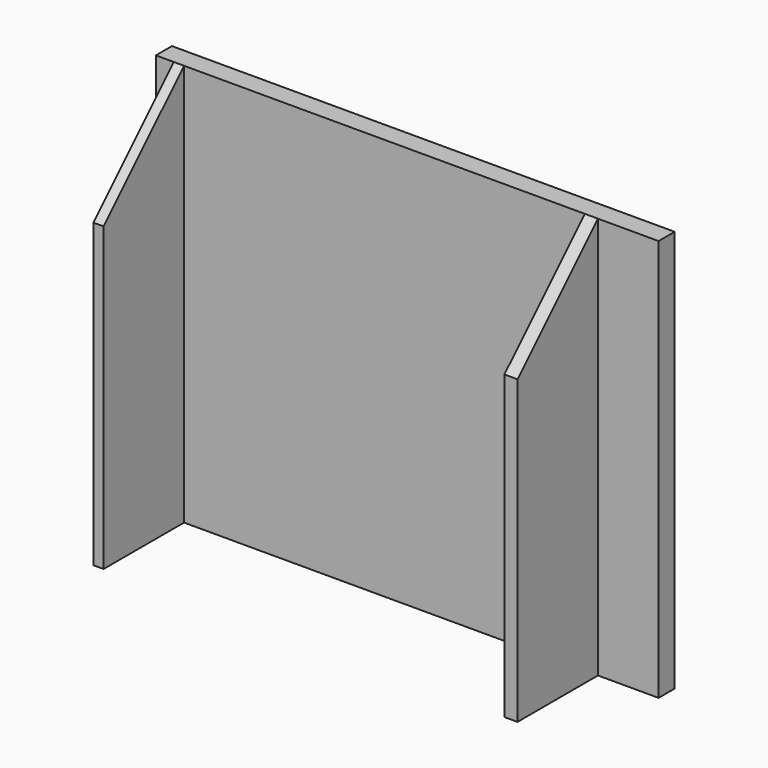
from build123d import *

# Parameters (mm, degrees)
F0_W     = 2.592586
F0_H     = 25.4
F0_W_2   = 3.312744
F1_DEPTH = 101.6
F2_SIZE  = 25.4


with BuildPart() as f1:
    # F0 (on Top) → F1 (new body)
    with BuildSketch(Plane.XY):
        Polygon((-62.491773, 8.849526), (-62.491773, 3.769526), (-57.973046, 3.769526), (-55.38046, 3.769526), (45.87432, 3.769526), (49.187064, 3.769526), (64.508227, 3.769526), (64.508227, 8.849526), align=None)
        with Locations((-56.676753, -8.930474)):
            Rectangle(F0_W, F0_H)
        with Locations((47.530692, -8.930474)):
            Rectangle(F0_W_2, F0_H)
        with Locations((-56.676753, -8.930474)):
            Rectangle(F0_W, F0_H)
        with Locations((47.530692, -8.930474)):
            Rectangle(F0_W_2, F0_H)
    extrude(amount=F1_DEPTH)

    # F2
    f2_edges = [f1.edges().sort_by_distance(p)[0] for p in [
        (-56.676753, -21.630474, 101.6),
        (47.530692, -21.630474, 101.6),
    ]]
    chamfer(f2_edges, length=F2_SIZE)


solid = f1.part
